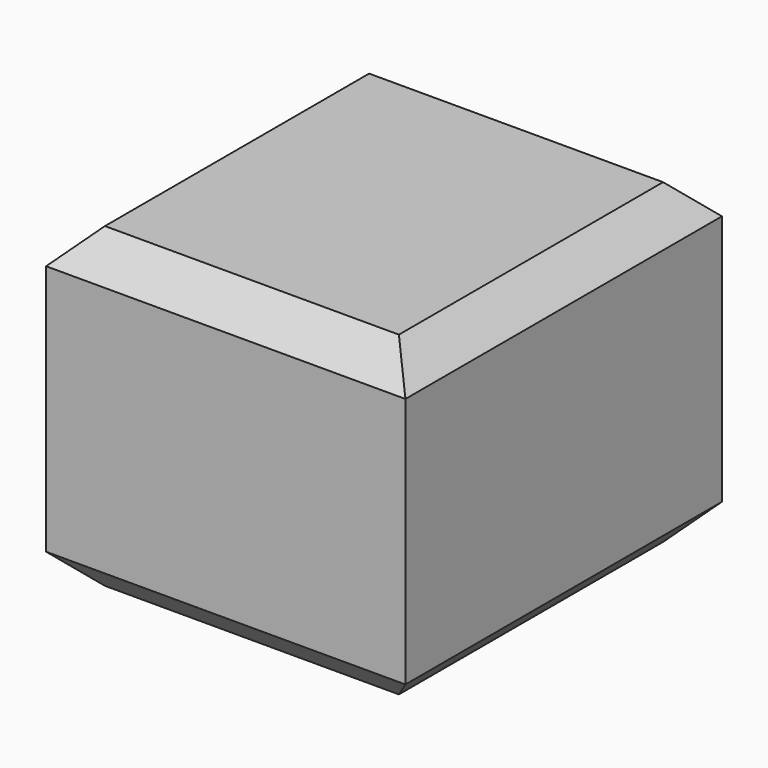
from build123d import *

# Parameters (mm, degrees)
F0_W     = 55.832479
F0_H     = 49.21193
F1_DEPTH = 61.468
F2_SIZE  = 5.08
F3_SIZE  = 5.08


with BuildPart() as f1:
    # F0 (on Front) → F1 (new body)
    with BuildSketch(Plane.XZ):
        with Locations((-27.916239, 24.605965)):
            Rectangle(F0_W, F0_H)
    extrude(amount=F1_DEPTH)

    # F2
    f2_edges = [f1.edges().sort_by_distance(p)[0] for p in [
        (0, -30.734, 49.21193),
        (-27.91624, -61.468, 49.21193),
        (-55.832479, -30.734, 49.21193),
        (-27.91624, 0, 49.21193),
    ]]
    chamfer(f2_edges, length=F2_SIZE)

    # F3
    f3_edges = [f1.edges().sort_by_distance(p)[0] for p in [
        (0, -30.734, 0),
        (-27.91624, -61.468, 0),
        (-55.832479, -30.734, 0),
        (-27.91624, 0, 0),
    ]]
    chamfer(f3_edges, length=F3_SIZE)


solid = f1.part
